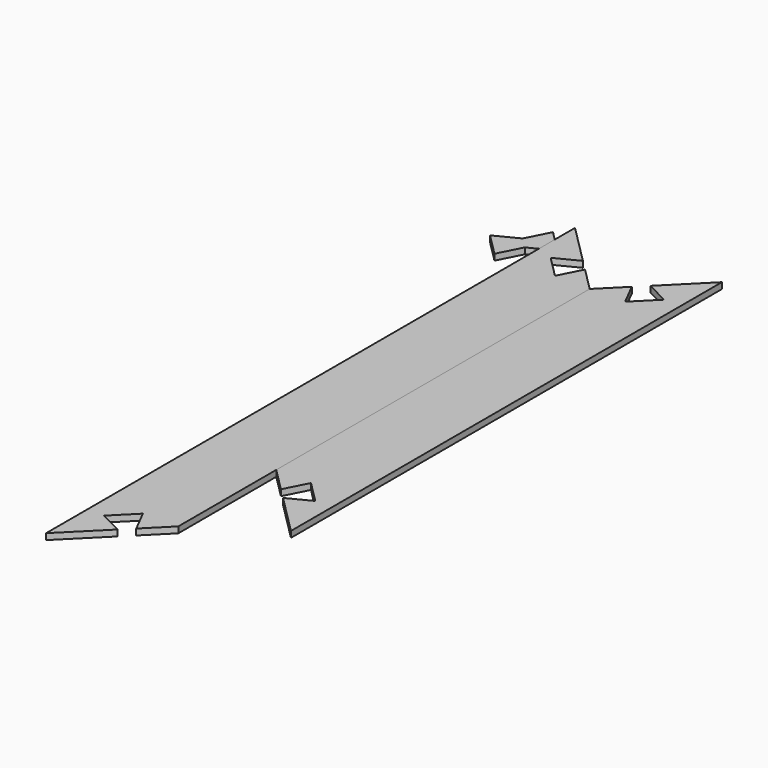
from build123d import *

# Parameters (mm, degrees)
F3_DEPTH = 6.35
F5_DEPTH = 6.35
F6_DEPTH = 6.35
F7_ANGLE = 90


with BuildPart() as f3:
    # F2 (on Top) → F3 (new body)
    with BuildSketch(Plane.XY):
        Polygon((-239.5700372903, 267.1490128061), (-227.4466915269, 290.9466915269), (-238.2229988722, 301.7229988722), (-262.020677593, 289.5996531087), align=None)
        Polygon((-239.5034831552, 266.7289052803), (-227.2608131224, 290.7608131224), (-227.4466915269, 290.9466915269), (-239.5700372903, 267.1490128061), (-262.020677593, 289.5996531087), (-238.2229988722, 301.7229988722), (-238.4088772766, 301.9088772766), (-262.4407851187, 289.6662072439), align=None)
        Polygon((-238.2229988722, 301.7229988722), (-227.4466915269, 290.9466915269), (-203.6490128061, 303.0700372903), (-226.0996531087, 325.520677593), align=None)
        Polygon((-227.4466915269, 290.9466915269), (-227.2608131224, 290.7608131224), (-203.2289052803, 303.0034831552), (-226.1662072439, 325.9407851187), (-238.4088772766, 301.9088772766), (-238.2229988722, 301.7229988722), (-226.0996531087, 325.520677593), (-203.6490128061, 303.0700372903), align=None)
    extrude(amount=F3_DEPTH)


with BuildPart() as f3_1:
    # F4: moved
    add(f3.part.moved(Location((-62.5, 0, 0))))


with BuildPart() as f5:
    # F2 (on Top) → F5 (new body)
    with BuildSketch(Plane.XY):
        Polygon((-203.2, -266.7), (-203.2, 266.7), (-227.2608131224, 290.7608131224), (-239.5034831552, 266.7289052803), (-262.4407851187, 289.6662072439), (-238.4088772766, 301.9088772766), (-279.4, 342.9), (-279.4, -342.9), (-238.4088772766, -301.9088772766), (-262.4407851187, -289.6662072439), (-239.5034831552, -266.7289052803), (-227.2608131224, -290.7608131224), align=None)
        Polygon((-239.5034831552, 266.7289052803), (-227.2608131224, 290.7608131224), (-227.4466915269, 290.9466915269), (-239.5700372903, 267.1490128061), (-262.020677593, 289.5996531087), (-238.2229988722, 301.7229988722), (-238.4088772766, 301.9088772766), (-262.4407851187, 289.6662072439), align=None)
        Polygon((-227.4466915269, -290.9466915269), (-227.2608131224, -290.7608131224), (-239.5034831552, -266.7289052803), (-262.4407851187, -289.6662072439), (-238.4088772766, -301.9088772766), (-238.2229988722, -301.7229988722), (-262.020677593, -289.5996531087), (-239.5700372903, -267.1490128061), align=None)
    extrude(amount=F5_DEPTH)


with BuildPart() as f6:
    # F2 (on Top) → F6 (new body)
    with BuildSketch(Plane.XY):
        Polygon((-203.2, 266.7), (203.2, 266.7), (227.2608131224, 290.7608131224), (203.2289052803, 303.0034831552), (226.1662072439, 325.9407851187), (238.4088772766, 301.9088772766), (279.4, 342.9), (-279.4, 342.9), (-238.4088772766, 301.9088772766), (-226.1662072439, 325.9407851187), (-203.2289052803, 303.0034831552), (-227.2608131224, 290.7608131224), align=None)
        Polygon((-227.4466915269, 290.9466915269), (-227.2608131224, 290.7608131224), (-203.2289052803, 303.0034831552), (-226.1662072439, 325.9407851187), (-238.4088772766, 301.9088772766), (-238.2229988722, 301.7229988722), (-226.0996531087, 325.520677593), (-203.6490128061, 303.0700372903), align=None)
        Polygon((203.2289052803, 303.0034831552), (227.2608131224, 290.7608131224), (227.4466915269, 290.9466915269), (203.6490128061, 303.0700372903), (226.0996531087, 325.520677593), (238.2229988722, 301.7229988722), (238.4088772766, 301.9088772766), (226.1662072439, 325.9407851187), align=None)
    extrude(amount=F6_DEPTH)


with BuildPart() as f6_1:
    # F7: moved
    add(f6.part.rotate(Axis((-203.2, 266.7, 3.175), (0, 0, -1)), F7_ANGLE))


solid = Compound([f3_1.part, f5.part, f6_1.part])
